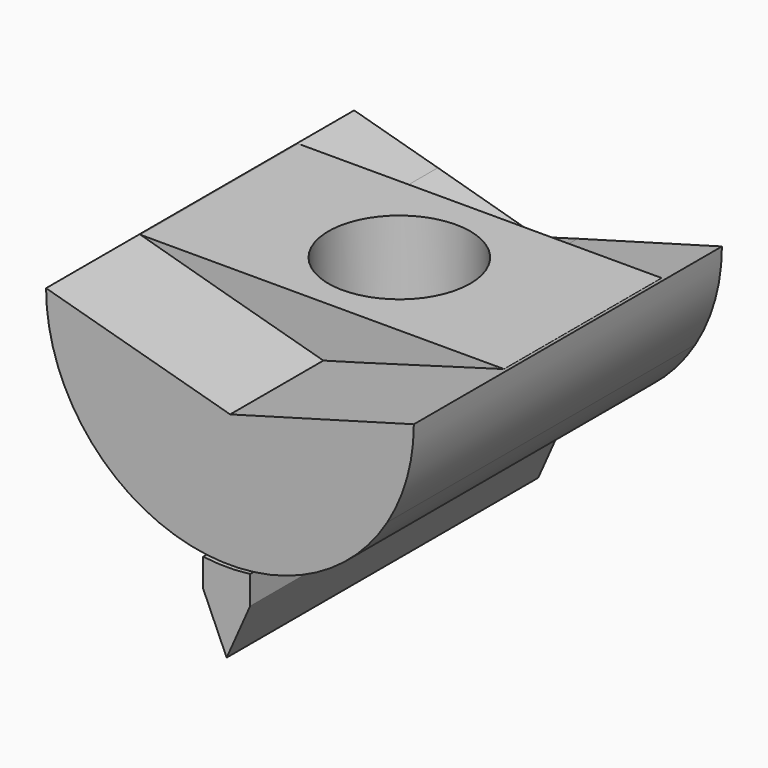
from build123d import *

# Parameters (mm, degrees)
F1_DEPTH = 127
F3_DEPTH = 128.4378021955
F5_DEPTH = 88.5605067015
F6_DEPTH = 23.5462002456
F7_R     = 23.3912457605
F8_DEPTH = 25.4


with BuildPart() as f1:
    # F0 (on Front) → F1 (new body)
    with BuildSketch(Plane.XZ):
        with BuildLine():
            Line((0.0581891033, -16.9071952176), (-60.6434829533, 0))
            ThreePointArc((-60.6434829533, 0), (-58.419745585, -16.2716117976), (-51.9116180406, -31.3498953286))
            Line((-51.9116180406, -31.3498953286), (0.0581891033, -16.9071952176))
        make_face()
        with BuildLine():
            Line((51.9116180406, -31.3498953286), (-51.9116180406, -31.3498953286))
            ThreePointArc((-51.9116180406, -31.3498953286), (0, -60.6434829533), (51.9116180406, -31.3498953286))
        make_face()
        Polygon((0.0581891033, -16.9071952176), (-51.9116180406, -31.3498953286), (51.9116180406, -31.3498953286), align=None)
        with BuildLine():
            Line((60.6434423053, -0.0702144545), (0.0581891033, -16.9071952176))
            Line((0.0581891033, -16.9071952176), (51.9116180406, -31.3498953286))
            ThreePointArc((51.9116180406, -31.3498953286), (58.4103159662, -16.3054289561), (60.6434423053, -0.0702144545))
        make_face()
    extrude(amount=F1_DEPTH)

    # F2 (on face) → F3 (join)
    with BuildSketch(Plane(origin=(0, 0, 0), x_dir=(-1, 0, 0), z_dir=(0, 1, 0))):
        with BuildLine():
            Line((-7.8074381221, -60.1388055641), (-7.8074381221, -69.4347918034))
            Line((-7.8074381221, -69.4347918034), (7.6910599156, -69.4347918034))
            Line((7.6910599156, -69.4347918034), (7.6910599156, -60.1537997311))
            ThreePointArc((7.6910599156, -60.153799731), (-0.0586700775, -60.6434545729), (-7.8074381221, -60.1388055641))
        make_face()
        Polygon((7.6910599156, -69.4347918034), (-7.8074381221, -69.4347918034), (-0.0581891033, -86.9502127171), align=None)
    extrude(amount=-F3_DEPTH)

    # F4 (on Front) → F5 (join)
    with BuildSketch(Plane.XZ):
        Polygon((59.6265792847, 0), (0, 0), (0, -17.0218236744), align=None)
        Polygon((0, -17.0218236744), (0, 0), (-60.2563172579, 0), align=None)
    extrude(amount=F5_DEPTH)

    # F4 (on Front) → F6 (cut)
    with BuildSketch(Plane.XZ):
        Polygon((59.6265792847, 0), (0, 0), (0, -17.0218236744), align=None)
        Polygon((0, -17.0218236744), (0, 0), (-60.2563172579, 0), align=None)
    extrude(amount=F6_DEPTH, mode=Mode.SUBTRACT)

    # F7 (on face) → F8 (cut)
    with BuildSketch(Plane.XY):
        with Locations((-0.3148689866, -56.783683598)):
            Circle(F7_R)
    extrude(amount=-F8_DEPTH, mode=Mode.SUBTRACT)


solid = f1.part
